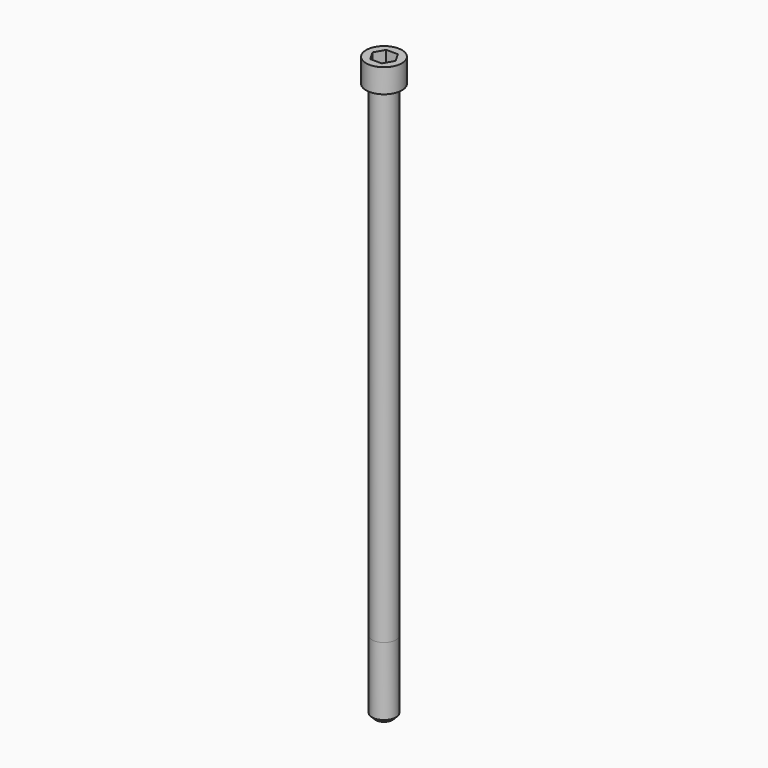
from build123d import *

# Parameters (mm, degrees)
POCKET_DEPTH = 10.07


with BuildPart() as part:
    # Sketch → Revolve (revolve)
    with BuildSketch(Plane.YZ):
        with BuildLine():
            Line((5.999, 0), (9, 0))
            Line((9, 0), (9, 11.97229))
            ThreePointArc((9, 11.97229), (8.991884, 11.991884), (8.97229, 12))
            Line((8.97229, 12), (0, 12))
            Line((0, -280), (0, 12))
            Line((4.25, -280), (0, -280))
            Line((6, -278.25), (4.25, -280))
            Line((6, -244), (6, -278.25))
            Line((5.999, 0), (6, -244))
        make_face()
    revolve(axis=Axis((0, 0, 0), (0, 0, 1)))

    # Sketch001 → Pocket (cut)
    with BuildSketch(Plane.XY.offset(12)):
        Polygon((5.813917, 0), (2.906959, 5.035), (-2.906959, 5.035), (-5.813917, 0), (-2.906959, -5.035), (2.906959, -5.035), align=None)
    extrude(amount=-POCKET_DEPTH, mode=Mode.SUBTRACT)


solid = part.part
